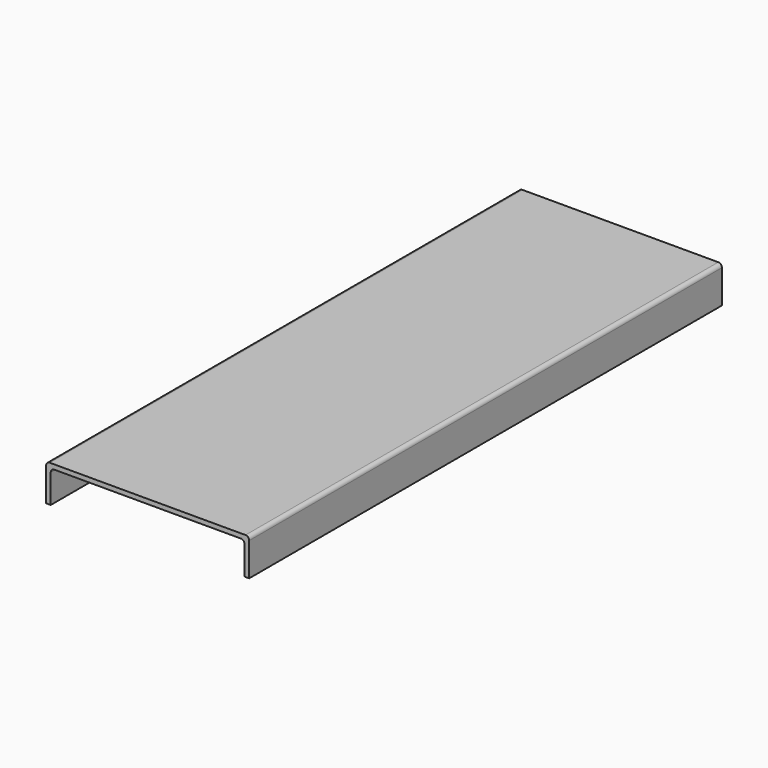
from build123d import *

# Parameters (mm, degrees)
F1_DEPTH = 203.2
F2_R     = 2.54
F3_R     = 2.54


with BuildPart() as f1:
    # F0 (on Front) → F1 (new body, symmetric)
    with BuildSketch(Plane.XZ):
        Polygon((69.85, 12.7), (-69.85, 12.7), (-69.85, -12.7), (-66.675, -12.7), (-66.675, 9.525), (66.675, 9.525), (66.675, -12.7), (69.85, -12.7), align=None)
    extrude(amount=F1_DEPTH, both=True)

    # F2
    f2_edges = [f1.edges().sort_by_distance(p)[0] for p in [
        (-69.85, 0, 12.7),
        (69.85, 0, 12.7),
    ]]
    fillet(f2_edges, radius=F2_R)

    # F3
    f3_edges = [f1.edges().sort_by_distance(p)[0] for p in [
        (-66.675, 0, 9.525),
        (66.675, 0, 9.525),
    ]]
    fillet(f3_edges, radius=F3_R)


solid = f1.part
